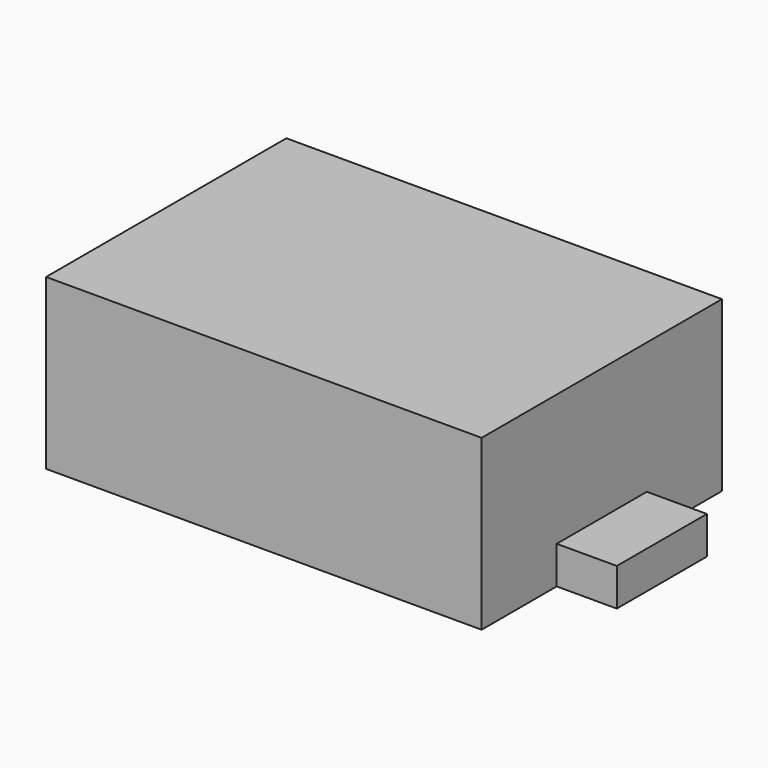
from build123d import *

# Parameters (mm, degrees)
BOX002_W     = 8
BOX002_H     = 15
BOX002_DEPTH = 5
BOX001_W     = 8
BOX001_H     = 15
BOX001_DEPTH = 5
BOX_W        = 58
BOX_H        = 40
BOX_DEPTH    = 22.5


with BuildPart() as obj1:
    # Box002 → Box002 (new body)
    with BuildSketch(Plane(origin=(-8, 12.5, 0), x_dir=(1, 0, 0), z_dir=(0, 0, 1))):
        with Locations((4, 7.5)):
            Rectangle(BOX002_W, BOX002_H)
    extrude(amount=BOX002_DEPTH)


with BuildPart() as obj2:
    # Box001 → Box001 (new body)
    with BuildSketch(Plane(origin=(58, 12.5, 0), x_dir=(1, 0, 0), z_dir=(0, 0, 1))):
        with Locations((4, 7.5)):
            Rectangle(BOX001_W, BOX001_H)
    extrude(amount=BOX001_DEPTH)


with BuildPart() as fusion:
    # Box → Box (new body)
    with BuildSketch(Plane.XY):
        with Locations((29, 20)):
            Rectangle(BOX_W, BOX_H)
    extrude(amount=BOX_DEPTH)

    # Fusion: union obj1, obj2
    add(obj1.part)
    add(obj2.part)


solid = fusion.part
